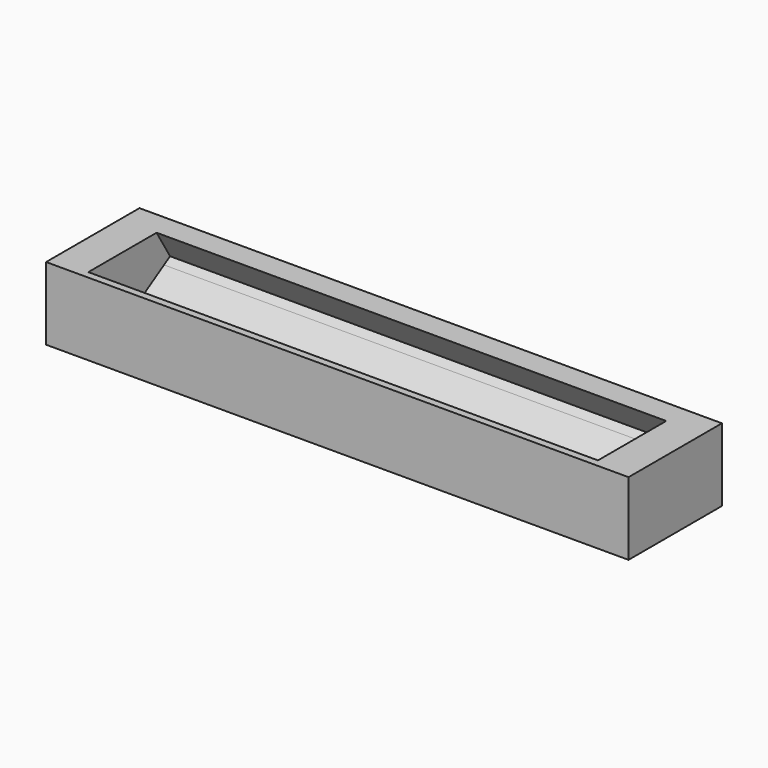
from build123d import *

# Parameters (mm, degrees)
F1_DEPTH = 5
F3_DEPTH = 5
F4_DEPTH = 70
F5_W     = 16.032818
F5_H     = 10
F6_DEPTH = 5


with BuildPart() as f1:
    # F0 (on Right) → F1 (new body)
    with BuildSketch(Plane.YZ):
        Polygon((-7.5, 0), (0, 0), (7.5, 0), (7.5, 10), (-7.5, 10), align=None)
    extrude(amount=F1_DEPTH)

    # F2 (on face) → F3 (join)
    with BuildSketch(Plane.YZ.offset(5)):
        Polygon((7.532818, 6.2145), (8.532818, 6.2145), (8.532818, 10), (7.5, 10), (7.5, 6.268203), align=None)
        Polygon((7.5, 6.194444), (7.5, 0), (8.532818, 0), (8.532818, 6.2145), (7.532818, 6.2145), align=None)
    extrude(amount=-F3_DEPTH)

    # F2 (on face) → F4 (join)
    with BuildSketch(Plane.YZ.offset(5)):
        Polygon((-7.5, 0), (0, 0), (0, 1), (-1, 1), (-6.5, 1), (-6.5, 9), (-5.888889, 9), (-6.5, 10), (-7.5, 10), align=None)
        Polygon((-6.5, 1), (-1, 1), (-5.888889, 9), (-6.5, 9), align=None)
        Polygon((-1, 1), (0, 1), (6.5, 1), (6.5, 5.583333), align=None)
        Polygon((7.5, 6.194444), (7.5, 0), (8.532818, 0), (8.532818, 6.2145), (7.532818, 6.2145), align=None)
        Polygon((0, 1), (0, 0), (7.5, 0), (7.5, 6.194444), (6.5, 5.583333), (6.5, 1), align=None)
        Polygon((7.532818, 6.2145), (8.532818, 6.2145), (8.532818, 10), (7.5, 10), (7.5, 6.268203), align=None)
        Polygon((5.219457, 10), (7.5, 6.268203), (7.5, 10), align=None)
    extrude(amount=F4_DEPTH)

    # F5 (on face) → F6 (join)
    with BuildSketch(Plane.YZ.offset(75)):
        with Locations((0.516409, 5)):
            Rectangle(F5_W, F5_H)
        Polygon((-7.5, 10), (-7.5, 0), (8.532818, 0), (8.532818, 10), (-6.5, 10), align=None)
    extrude(amount=F6_DEPTH)


with BuildPart() as f1_1:
    # F7: moved
    add(f1.part.moved(Location((-40, 0, 0))))


solid = f1_1.part
